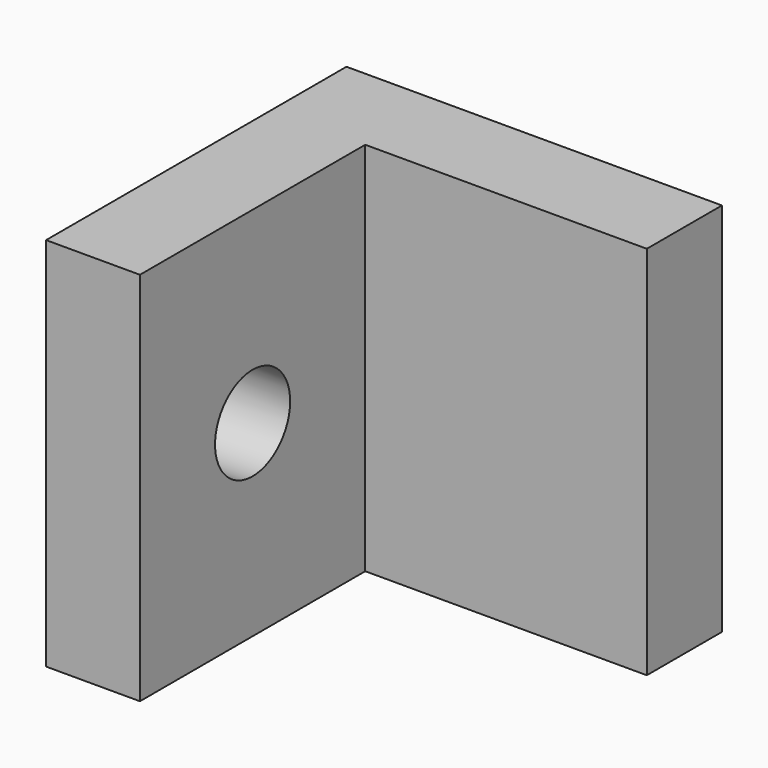
from build123d import *

# Parameters (mm, degrees)
F0_W     = 50.8
F0_H     = 50.8
F1_DEPTH = 12.7
F2_W     = 12.7
F2_H     = 50.8
F3_DEPTH = 38.1
F4_R     = 6.35
F5_DEPTH = 25.4


with BuildPart() as f1:
    # F0 (on Front) → F1 (new body)
    with BuildSketch(Plane.XZ):
        with Locations((-16.446501, 18.960732)):
            Rectangle(F0_W, F0_H)
    extrude(amount=F1_DEPTH)

    # F2 (on face) → F3 (join)
    with BuildSketch(Plane.XZ.offset(12.7)):
        with Locations((-35.496501, 18.960732)):
            Rectangle(F2_W, F2_H)
    extrude(amount=F3_DEPTH)

    # F4 (on face) → F5 (cut)
    with BuildSketch(Plane.YZ.offset(-29.146501)):
        with Locations((-31.75, 18.960732)):
            Circle(F4_R)
    extrude(amount=-F5_DEPTH, mode=Mode.SUBTRACT)


solid = f1.part
